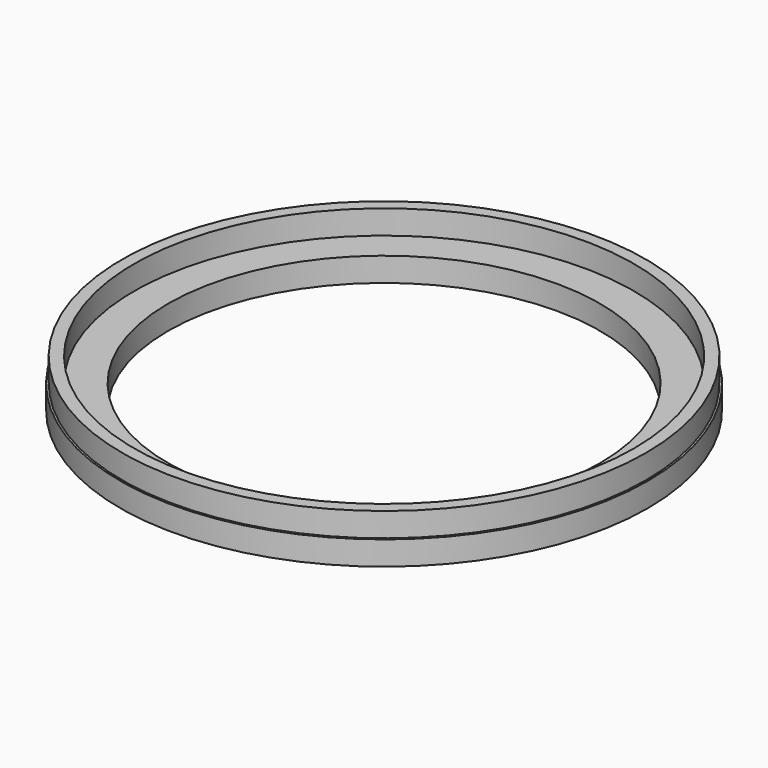
from build123d import *

# Parameters (mm, degrees)
F0_R     = 209.55
F1_DEPTH = 19.05
F2_R     = 171.45
F3_DEPTH = 25.4
F4_R     = 207.9625
F4_R_2   = 198.4375
F5_DEPTH = 19.05


with BuildPart() as f1:
    # F0 (on Top) → F1 (new body)
    with BuildSketch(Plane.XY):
        Circle(F0_R)
    extrude(amount=F1_DEPTH)

    # F2 (on face) → F3 (cut)
    with BuildSketch(Plane(origin=(0, 0, 0), x_dir=(1, 0, 0), z_dir=(0, 0, -1))):
        Circle(F2_R)
    extrude(amount=-F3_DEPTH, mode=Mode.SUBTRACT)

    # F4 (on face) → F5 (join)
    with BuildSketch(Plane.XY.offset(19.05)):
        Circle(F4_R)
        Circle(F4_R_2, mode=Mode.SUBTRACT)
    extrude(amount=F5_DEPTH)


solid = f1.part
